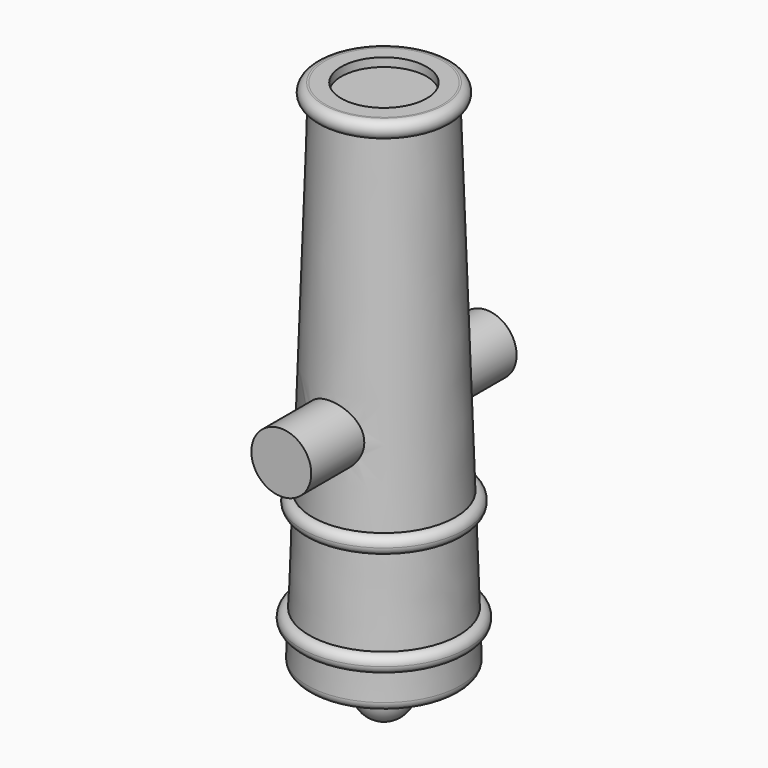
from build123d import *

# Parameters (mm, degrees)
F2_R          = 17.5
F3_DEPTH      = 75
F3_DEPTH_BACK = 75


with BuildPart() as f1:
    # F0 (on Front) → F1 (revolve)
    with BuildSketch(Plane.XZ):
        with BuildLine():
            Line((25, 300), (0, 300))
            Line((0, 300), (0, 0))
            Line((0, 0), (0, -22))
            ThreePointArc((0, -22), (12.006943492, -15.9907345629), (14.3934989131, -2.7777743974))
            ThreePointArc((14.3934989131, -2.7777743974), (14.7909219741, -0.2471306435), (16.9974998314, 1.0540676727))
            ThreePointArc((16.9974998314, 1.0540676727), (28.8100310483, 2.3882213232), (40.5569577927, 4.2118363535))
            ThreePointArc((40.5569577927, 4.2118363535), (43.5719896291, 5.9875537176), (44.6846055492, 9.3050339279))
            Line((44.6846055492, 9.3050339279), (44.1525268557, 25.002869711))
            ThreePointArc((44.1525268557, 25.002869711), (38.9860186606, 29.8306220939), (43.8137710435, 34.997130289))
            Line((43.8137710435, 34.997130289), (42.1188247549, 85.002869711))
            ThreePointArc((42.1188247549, 85.002869711), (36.9523165598, 89.8306220939), (41.7800689426, 94.997130289))
            Line((41.7800689426, 94.997130289), (35, 295.028460536))
            ThreePointArc((35, 295.028460536), (39.8277885354, 299.8572829053), (35.3358481417, 305))
            Line((35.3358481417, 305), (34.3253960461, 305))
            Line((34.3253960461, 305), (25, 305))
            Line((25, 305), (25, 300))
        make_face()
        with BuildLine():
            ThreePointArc((35.3358481417, 305), (34.8306220939, 305.025590825), (34.3253960461, 305))
            Line((34.3253960461, 305), (35.3358481417, 305))
        make_face()
        with BuildLine():
            ThreePointArc((46.9494468487, 90), (45.4245806929, 93.5949192989), (41.7800689426, 94.997130289))
            Line((41.7800689426, 94.997130289), (42.1188247549, 85.002869711))
            ThreePointArc((42.1188247549, 85.002869711), (45.5443661476, 86.5248661559), (46.9494468487, 90))
        make_face()
        with BuildLine():
            Line((42.1188247549, 85.002869711), (41.7800689426, 94.997130289))
            ThreePointArc((41.7800689426, 94.997130289), (36.9523165598, 89.8306220939), (42.1188247549, 85.002869711))
        make_face()
        with BuildLine():
            ThreePointArc((43.8137710435, 34.997130289), (38.9860186606, 29.8306220939), (44.1525268557, 25.002869711))
            Line((44.1525268557, 25.002869711), (43.8137710435, 34.997130289))
        make_face()
        with BuildLine():
            Line((43.8137710435, 34.997130289), (44.1525268557, 25.002869711))
            ThreePointArc((44.1525268557, 25.002869711), (47.5780682484, 26.5248661559), (48.9831489496, 30))
            ThreePointArc((48.9831489496, 30), (47.4582827937, 33.5949192989), (43.8137710435, 34.997130289))
        make_face()
    revolve(axis=Axis((0, 0, 150), (0, 0, -1)))

    # F2 (on Front) → F3 (join, two sides)
    with BuildSketch(Plane.XZ) as f3_sk:
        with Locations((0, 140)):
            Circle(F2_R)
    extrude(amount=F3_DEPTH)
    extrude(f3_sk.sketch, amount=-F3_DEPTH_BACK)


solid = f1.part
